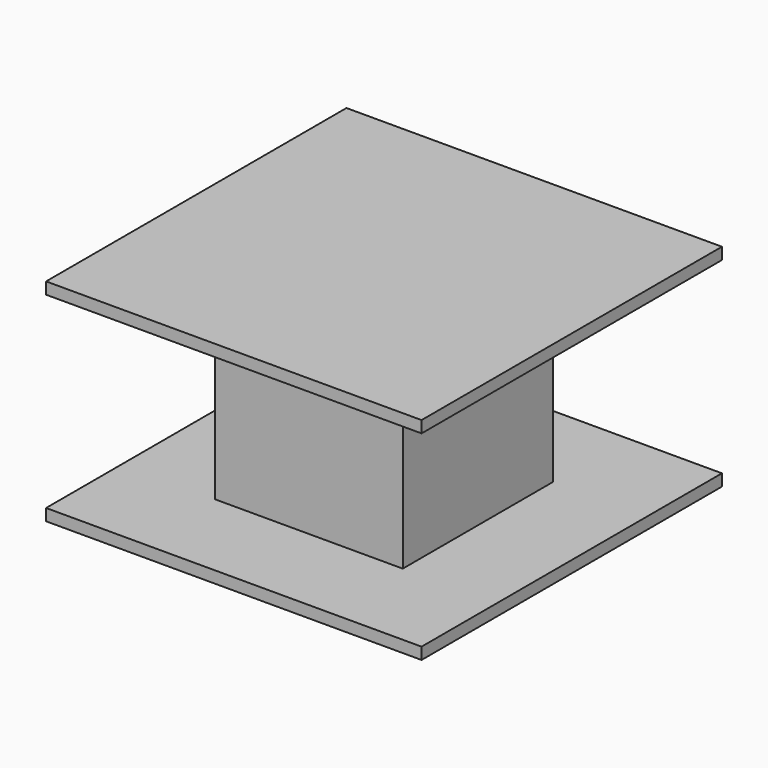
from build123d import *

# Parameters (mm, degrees)
F1_DEPTH      = 101.6
F1_DEPTH_BACK = 101.6
F2_DEPTH      = 101.6
F2_DEPTH_BACK = 101.6
F0_W          = 101.6
F0_H          = 101.6
F3_DEPTH      = 50.8
F3_DEPTH_BACK = 50.8


with BuildPart() as f1:
    # F0 (on Front) → F1 (new body, two sides)
    with BuildSketch(Plane.XZ) as f1_sk:
        Polygon((-101.6, 50.8), (-50.8, 50.8), (50.8, 50.8), (101.6, 50.8), (101.6, 57.15), (-101.6, 57.15), align=None)
    extrude(amount=F1_DEPTH)
    extrude(f1_sk.sketch, amount=-F1_DEPTH_BACK)


with BuildPart() as f2:
    # F0 (on Front) → F2 (new body, two sides)
    with BuildSketch(Plane.XZ) as f2_sk:
        Polygon((50.8, -50.8), (-50.8, -50.8), (-101.6, -50.8), (-101.6, -57.15), (101.6, -57.15), (101.6, -50.8), align=None)
    extrude(amount=F2_DEPTH)
    extrude(f2_sk.sketch, amount=-F2_DEPTH_BACK)


with BuildPart() as f3:
    # F0 (on Front) → F3 (new body, two sides)
    with BuildSketch(Plane.XZ) as f3_sk:
        Rectangle(F0_W, F0_H)
    extrude(amount=F3_DEPTH)
    extrude(f3_sk.sketch, amount=-F3_DEPTH_BACK)


solid = Compound([f1.part, f2.part, f3.part])
